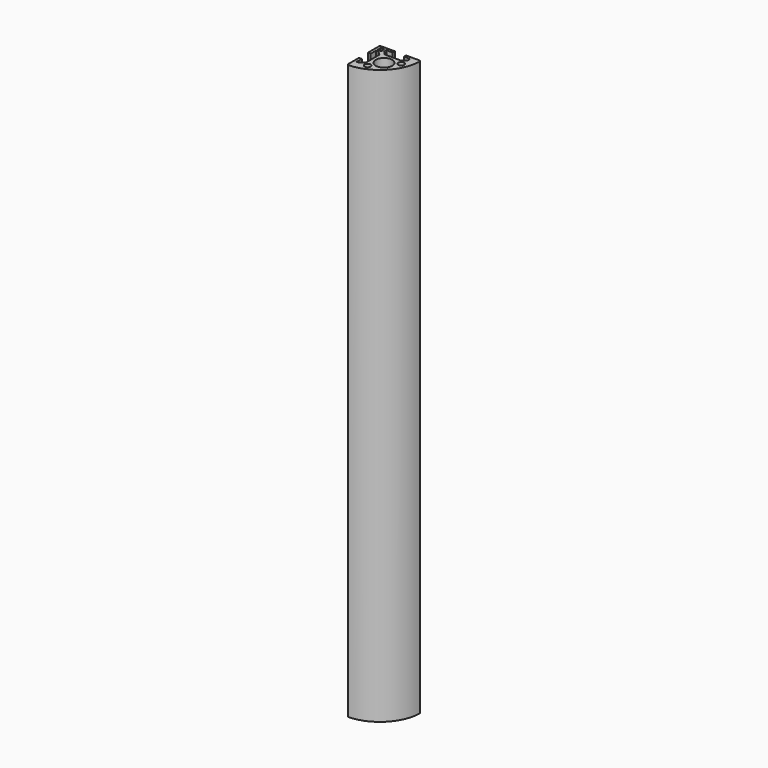
from build123d import *

# Parameters (mm, degrees)
SKETCH006_R   = 6
SKETCH006_R_2 = 2.2
SKETCH006_W   = 2.75
SKETCH006_H   = 2.75
PAD_DEPTH     = 420


with BuildPart() as part:
    # Sketch006 → Pad (new body)
    with BuildSketch(Plane.XY):
        with BuildLine():
            Line((13.982753, 15), (4.1, 15))
            Line((4.1, 15), (4.1, 13))
            Line((4.1, 13), (8.75, 13))
            Line((8.75, 13), (8.75, 11))
            Line((8.75, 11), (6, 8.25))
            Line((6, 8.25), (-6, 8.25))
            Line((-6, 8.25), (-8.75, 11))
            Line((-8.75, 11), (-8.75, 13))
            Line((-8.75, 13), (-4.1, 13))
            Line((-4.1, 13), (-4.1, 15))
            Line((-4.1, 15), (-14, 15))
            ThreePointArc((-14, 15), (-14.707107, 14.707107), (-15, 14))
            Line((-15, 14), (-15, 4.1))
            Line((-15, 4.1), (-13, 4.1))
            Line((-13, 4.1), (-13, 8.75))
            Line((-13, 8.75), (-11, 8.75))
            Line((-11, 8.75), (-8.25, 6))
            Line((-8.25, 6), (-8.25, -6))
            Line((-8.25, -6), (-11, -8.75))
            Line((-11, -8.75), (-13, -8.75))
            Line((-13, -8.75), (-13, -4.1))
            Line((-13, -4.1), (-15, -4.1))
            Line((-15, -4.1), (-15, -13.982753))
            ThreePointArc((-15, -13.982753), (-14.694808, -14.701948), (-13.965517, -14.982159))
            ThreePointArc((-13.965517, -14.982159), (6.213203, -6.213203), (14.982159, 13.965517))
            ThreePointArc((14.982159, 13.965517), (14.701948, 14.694808), (13.982753, 15))
        make_face()
        Circle(SKETCH006_R, mode=Mode.SUBTRACT)
        with Locations((-5.2, -8.5)):
            Circle(SKETCH006_R_2, mode=Mode.SUBTRACT)
        with Locations((8.5, 5.2)):
            Circle(SKETCH006_R_2, mode=Mode.SUBTRACT)
        with Locations((-11.625, 11.625)):
            Rectangle(SKETCH006_W, SKETCH006_H, mode=Mode.SUBTRACT)
    extrude(amount=PAD_DEPTH)


solid = part.part
